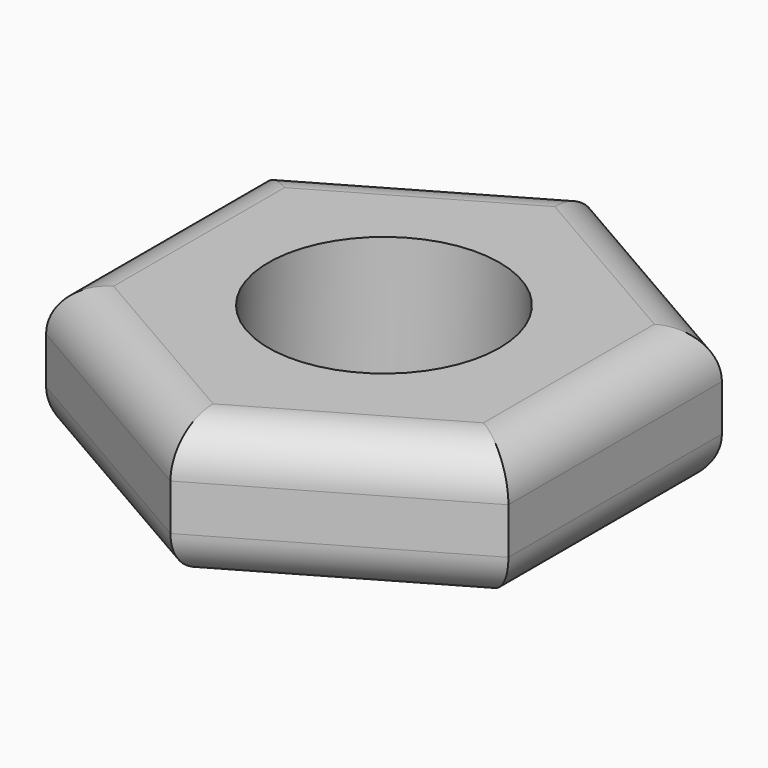
from build123d import *

# Parameters (mm, degrees)
F0_R     = 2.5
F1_DEPTH = 3
F2_R     = 1


with BuildPart() as f1:
    # F0 (on Top) → F1 (new body)
    with BuildSketch(Plane.XY):
        Polygon((-5, 2.886751), (-5, -2.886751), (0, -5.773503), (5, -2.886751), (5, 2.886751), (0, 5.773503), align=None)
        Circle(F0_R, mode=Mode.SUBTRACT)
    extrude(amount=F1_DEPTH)

    # F2
    f2_edges = [f1.edges().sort_by_distance(p)[0] for p in [
        (5, 0, 0),
        (2.5, 4.330127, 0),
        (-2.5, 4.330127, 0),
        (-5, 0, 0),
        (-2.5, -4.330127, 0),
        (2.5, -4.330127, 0),
        (5, 0, 3),
        (2.5, -4.330127, 3),
        (-2.5, -4.330127, 3),
        (-5, 0, 3),
        (-2.5, 4.330127, 3),
        (2.5, 4.330127, 3),
    ]]
    fillet(f2_edges, radius=F2_R)


solid = f1.part
